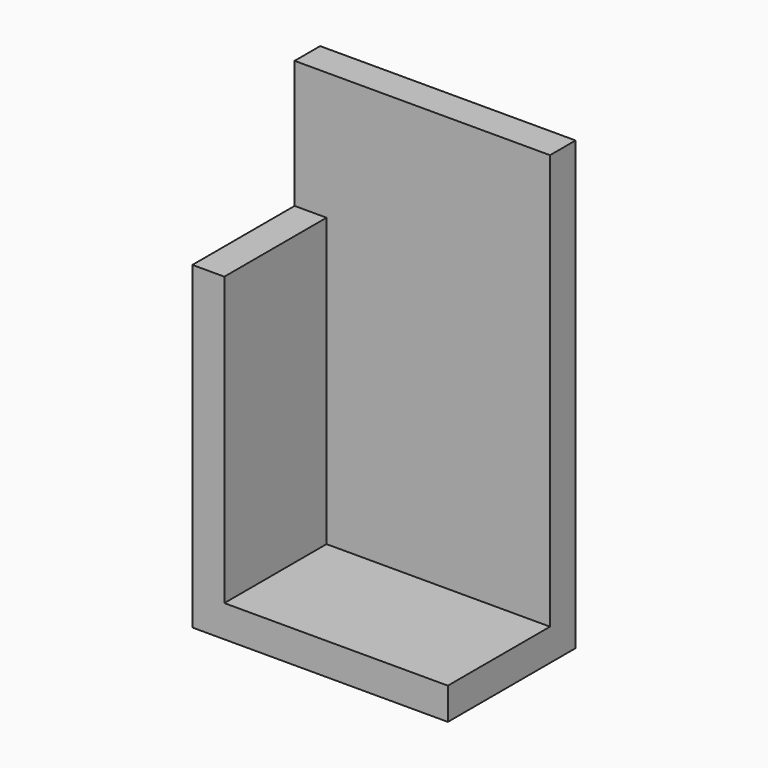
from build123d import *

# Parameters (mm, degrees)
F0_W     = 50.8
F0_H     = 88.9
F1_DEPTH = 31.75
F2_W     = 25.4
F2_H     = 82.55
F3_DEPTH = 44.45
F4_W     = 25.4
F4_H     = 25.4
F5_DEPTH = 25.4


with BuildPart() as f1:
    # F0 (on Front) → F1 (new body)
    with BuildSketch(Plane.XZ):
        Rectangle(F0_W, F0_H)
    extrude(amount=F1_DEPTH)

    # F2 (on face) → F3 (cut)
    with BuildSketch(Plane.YZ.offset(25.4)):
        with Locations((-19.05, 3.175)):
            Rectangle(F2_W, F2_H)
    extrude(amount=-F3_DEPTH, mode=Mode.SUBTRACT)

    # F4 (on face) → F5 (cut)
    with BuildSketch(Plane(origin=(-25.4, 0, 0), x_dir=(0, -1, 0), z_dir=(-1, 0, 0))):
        with Locations((19.05, 31.75)):
            Rectangle(F4_W, F4_H)
    extrude(amount=-F5_DEPTH, mode=Mode.SUBTRACT)


solid = f1.part
